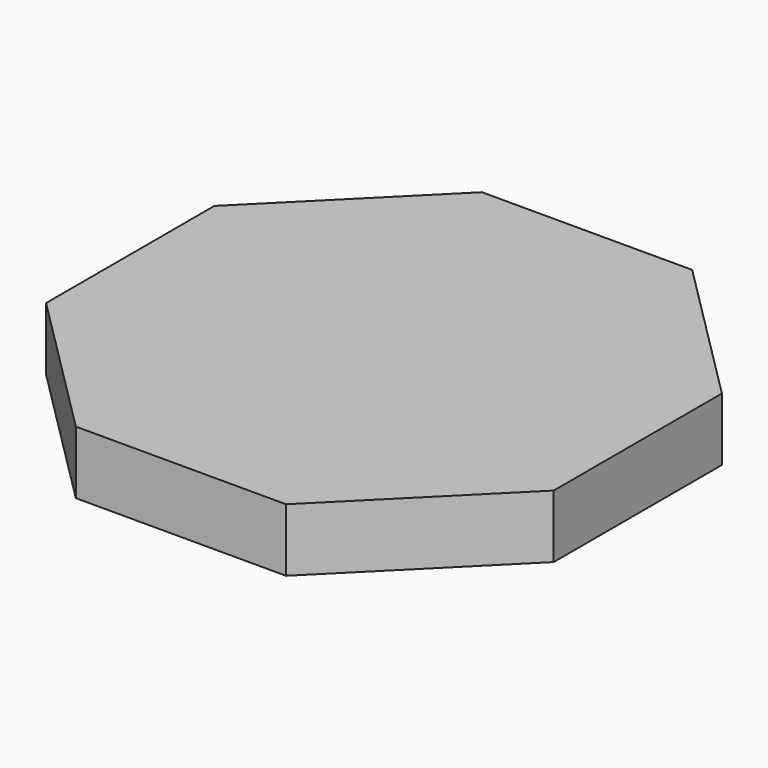
from build123d import *

# Parameters (mm, degrees)
F0_W     = 51.181
F0_H     = 51.181
F1_DEPTH = 6.35
F3_DEPTH = 25.4


with BuildPart() as f1:
    # F0 (on Top) → F1 (new body)
    with BuildSketch(Plane.XY):
        with Locations((0.77589, 9.620415)):
            Rectangle(F0_W, F0_H)
    extrude(amount=F1_DEPTH)

    # F2 (on face) → F3 (cut)
    with BuildSketch(Plane.XY.offset(6.35)):
        Polygon((-24.81461, 35.210915), (-24.81461, 20.220347), (-9.824042, 35.210915), align=None)
        Polygon((26.36639, 35.210915), (11.375822, 35.210915), (26.36639, 20.220347), align=None)
        Polygon((-9.824042, -15.970085), (-24.81461, -0.979517), (-24.81461, -15.970085), align=None)
        Polygon((26.36639, -0.979517), (11.375822, -15.970085), (26.36639, -15.970085), align=None)
    extrude(amount=-F3_DEPTH, mode=Mode.SUBTRACT)


solid = f1.part
